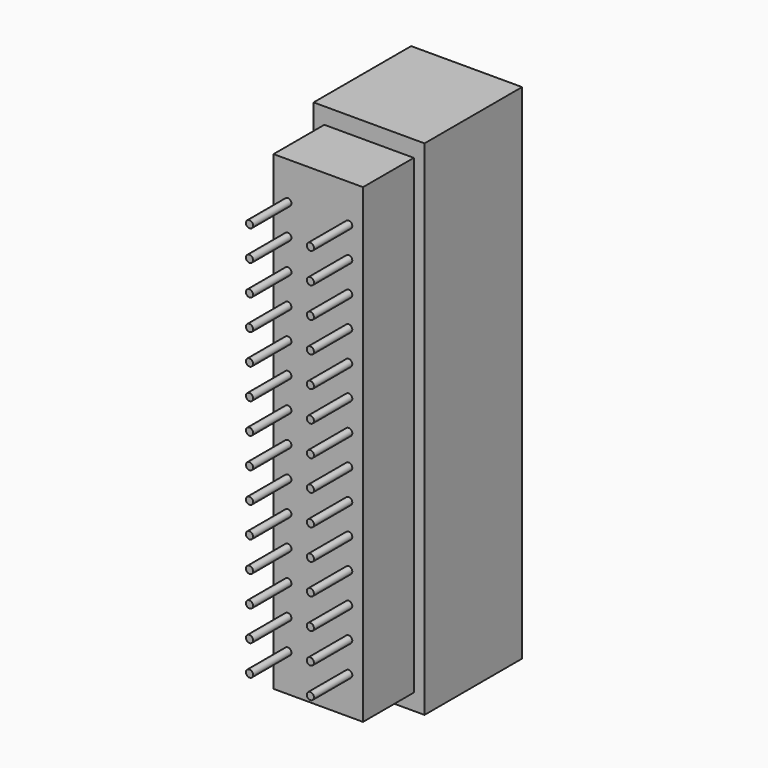
from build123d import *

# Parameters (mm, degrees)
SKETCH001_W           = 9.26
SKETCH001_H           = 10.18
EXTRUDE001_DEPTH      = 1.355
EXTRUDE001_DEPTH_BACK = 0.3
SKETCH002_W           = 9.26
SKETCH002_H           = 10.18
EXTRUDE002_DEPTH      = 1.35
EXTRUDE002_DEPTH_BACK = 0.3
SKETCH003_R           = 0.3
EXTRUDE003_DEPTH      = 4
EXTRUDE_DEPTH         = 39.3


with BuildPart() as extrude001:
    # Sketch001 (on Face14 of Extrude) → Extrude001 (new body, two sides)
    with BuildSketch(Plane.XY.offset(39.3)) as extrude001_sk:
        with Locations((0, 10.39)):
            Rectangle(SKETCH001_W, SKETCH001_H)
    extrude(amount=EXTRUDE001_DEPTH)
    extrude(extrude001_sk.sketch, amount=-EXTRUDE001_DEPTH_BACK)


with BuildPart() as extrude002:
    # Sketch002 (on Face13 of Extrude) → Extrude002 (new body, two sides)
    with BuildSketch(Plane(origin=(0, 0, 0), x_dir=(1, 0, 0), z_dir=(0, 0, -1))) as extrude002_sk:
        with Locations((0, -10.39)):
            Rectangle(SKETCH002_W, SKETCH002_H)
    extrude(amount=EXTRUDE002_DEPTH)
    extrude(extrude002_sk.sketch, amount=-EXTRUDE002_DEPTH_BACK)


with BuildPart() as extrude003:
    # Sketch003 (on Face4 of Extrude) → Extrude003 (new body)
    with BuildSketch(Plane.XZ):
        with Locations((-2.54, 36.16)):
            Circle(SKETCH003_R)
        with Locations((-2.54, 33.62)):
            Circle(SKETCH003_R)
        with Locations((-2.54, 31.08)):
            Circle(SKETCH003_R)
        with Locations((-2.54, 28.54)):
            Circle(SKETCH003_R)
        with Locations((-2.54, 26)):
            Circle(SKETCH003_R)
        with Locations((-2.54, 23.46)):
            Circle(SKETCH003_R)
        with Locations((-2.54, 20.92)):
            Circle(SKETCH003_R)
        with Locations((-2.54, 18.38)):
            Circle(SKETCH003_R)
        with Locations((-2.54, 15.84)):
            Circle(SKETCH003_R)
        with Locations((-2.54, 13.3)):
            Circle(SKETCH003_R)
        with Locations((-2.54, 10.76)):
            Circle(SKETCH003_R)
        with Locations((-2.54, 8.22)):
            Circle(SKETCH003_R)
        with Locations((-2.54, 5.68)):
            Circle(SKETCH003_R)
        with Locations((-2.54, 3.14)):
            Circle(SKETCH003_R)
        with Locations((2.54, 3.14)):
            Circle(SKETCH003_R)
        with Locations((2.54, 5.68)):
            Circle(SKETCH003_R)
        with Locations((2.54, 8.22)):
            Circle(SKETCH003_R)
        with Locations((2.54, 10.76)):
            Circle(SKETCH003_R)
        with Locations((2.54, 13.3)):
            Circle(SKETCH003_R)
        with Locations((2.54, 15.84)):
            Circle(SKETCH003_R)
        with Locations((2.54, 18.38)):
            Circle(SKETCH003_R)
        with Locations((2.54, 20.92)):
            Circle(SKETCH003_R)
        with Locations((2.54, 23.46)):
            Circle(SKETCH003_R)
        with Locations((2.54, 26)):
            Circle(SKETCH003_R)
        with Locations((2.54, 28.54)):
            Circle(SKETCH003_R)
        with Locations((2.54, 31.08)):
            Circle(SKETCH003_R)
        with Locations((2.54, 33.62)):
            Circle(SKETCH003_R)
        with Locations((2.54, 36.16)):
            Circle(SKETCH003_R)
    extrude(amount=EXTRUDE003_DEPTH)


with BuildPart() as fusion:
    # Sketch → Extrude (new body)
    with BuildSketch(Plane.XY):
        Polygon((-4.63, 15.48), (-4.63, 5.3), (-3.735, 5.3), (-3.735, 0), (3.735, 0), (3.735, 5.3), (4.63, 5.3), (4.63, 15.48), (1.17, 15.48), (1.17, 8.6), (-1.17, 8.6), (-1.17, 15.48), align=None)
    extrude(amount=EXTRUDE_DEPTH)

    # Fusion: union Extrude001, Extrude002, Extrude003
    add(extrude001.part)
    add(extrude002.part)
    add(extrude003.part)


solid = fusion.part
